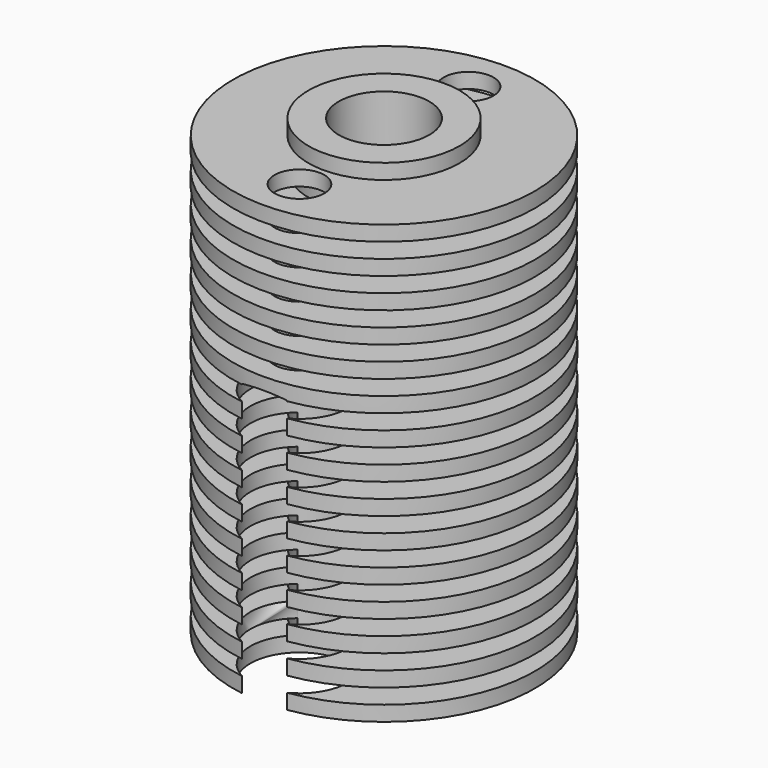
from build123d import *

# Parameters (mm, degrees)
LINEARPATTERN_COUNT = 15
LINEARPATTERN_PITCH = 2
SKETCH011_R         = 1.65
HOLE007_DEPTH       = 29.001
SKETCH014_R         = 3.25
HOLE008_DEPTH       = 18.047203
HOLE008_TIPS_R      = 3.25


with BuildPart() as part:
    # Sketch008 → Revolution (revolve)
    with BuildSketch(Plane.XZ):
        Polygon((0, 14.5), (10, 14.5), (10, 15.5), (5, 15.5), (5, 16.5), (0, 16.5), align=None)
    revolution = revolve(axis=Axis((0, 0, 0), (0, 0, 1)))

    # LinearPattern: Revolution ×15
    with Locations(*[(0, 0, i * LINEARPATTERN_PITCH) for i in range(1, LINEARPATTERN_COUNT)]):
        add(revolution)

    # Sketch009 → Groove (revolve, cut)
    with BuildSketch(Plane.XZ):
        Polygon((1.6, 14.5), (1.6, 14.7), (1.5, 14.7), (1.5, 34.5), (3, 34.5), (3, 44.5), (0, 44.5), (0, 14.5), align=None)
    revolve(axis=Axis((0, 0, 0), (0, 0, 1)), mode=Mode.SUBTRACT)

    # Sketch011 → Hole007 (cut, through all)
    with BuildSketch(Plane(origin=(0, 0, 43.5), x_dir=(-1, 0, 0), z_dir=(0, 0, 1))):
        with Locations((0, 7)):
            Circle(SKETCH011_R)
        with Locations((0, -7)):
            Circle(SKETCH011_R)
    extrude(amount=-HOLE007_DEPTH, mode=Mode.SUBTRACT)

    # Sketch014 (on Face97 of Hole007) → Hole008 (cut)
    with BuildSketch(Plane(origin=(0, 0, 14.5), x_dir=(1, 0, 0), z_dir=(0, 0, -1))):
        with Locations((0, 7)):
            Circle(SKETCH014_R)
        with Locations((0, -7)):
            Circle(SKETCH014_R)
    extrude(amount=-HOLE008_DEPTH, mode=Mode.SUBTRACT)

    # Hole008 tips → Hole008 tip 1 section 0
    with BuildSketch(Plane(origin=(0, 0, 32.547203), x_dir=(1, 0, 0), z_dir=(0, 0, -1)), mode=Mode.PRIVATE) as hole008_tip_1_s0:
        with Locations((0, 7)):
            Circle(HOLE008_TIPS_R)
    loft([hole008_tip_1_s0.sketch, Vertex(0, -7, 34.5)], mode=Mode.SUBTRACT)

    # Hole008 tips → Hole008 tip 2 section 0
    with BuildSketch(Plane(origin=(0, 0, 32.547203), x_dir=(1, 0, 0), z_dir=(0, 0, -1)), mode=Mode.PRIVATE) as hole008_tip_2_s0:
        with Locations((0, -7)):
            Circle(HOLE008_TIPS_R)
    loft([hole008_tip_2_s0.sketch, Vertex(0, 7, 34.5)], mode=Mode.SUBTRACT)


solid = part.part
